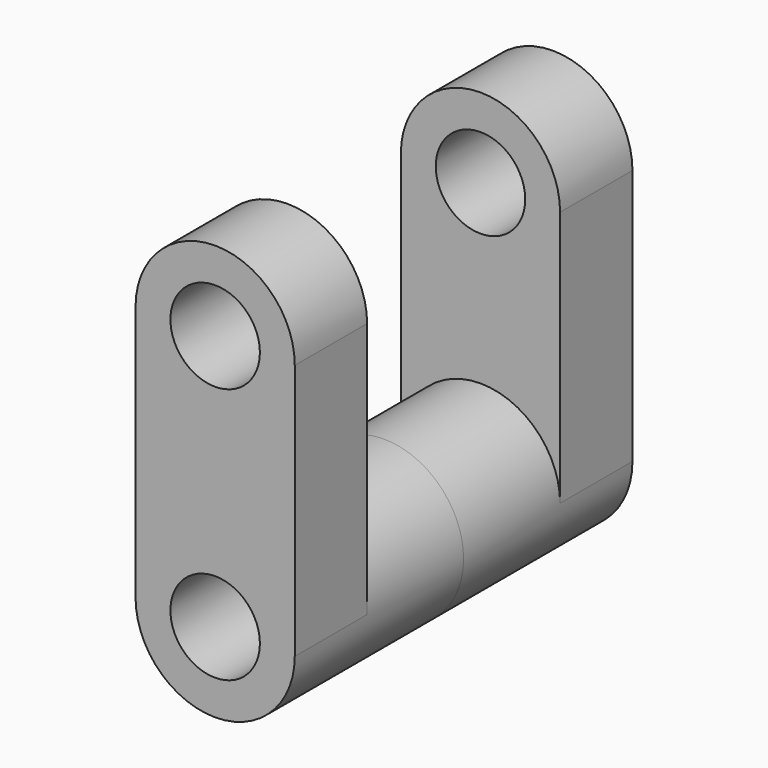
from build123d import *

# Parameters (mm, degrees)
F0_R     = 9.422472
F1_DEPTH = 19.05
F2_DEPTH = 25.4


with BuildPart() as f1:
    # F0 (on Front) → F1 (new body)
    with BuildSketch(Plane.XZ):
        with BuildLine():
            ThreePointArc((-16.764912, 53.948052), (0, 37.183141), (16.764912, 53.948052))
            ThreePointArc((16.764912, 53.948052), (0, 70.712964), (-16.764912, 53.948052))
        make_face()
        with Locations((0, 53.948052)):
            Circle(F0_R, mode=Mode.SUBTRACT)
        with BuildLine():
            ThreePointArc((-16.764912, 0), (0, 16.764912), (16.764912, 0))
            Line((16.764912, 0), (16.764912, 53.948052))
            ThreePointArc((16.764912, 53.948052), (0, 37.183141), (-16.764912, 53.948052))
            Line((-16.764912, 53.948052), (-16.764912, 0))
        make_face()
        with BuildLine():
            ThreePointArc((-16.764912, 0), (0, -16.764912), (16.764912, 0))
            ThreePointArc((16.764912, 0), (0, 16.764912), (-16.764912, 0))
        make_face()
        Circle(F0_R, mode=Mode.SUBTRACT)
    extrude(amount=F1_DEPTH)

    # F0 (on Front) → F2 (join)
    with BuildSketch(Plane.XZ):
        with BuildLine():
            ThreePointArc((-16.764912, 0), (0, -16.764912), (16.764912, 0))
            ThreePointArc((16.764912, 0), (0, 16.764912), (-16.764912, 0))
        make_face()
        Circle(F0_R, mode=Mode.SUBTRACT)
    extrude(amount=-F2_DEPTH)

    # F3: F1 across face


with BuildPart() as f1_1:
    add(f1.part)
    add(f1.part.mirror(Plane(origin=(0, 25.4, 0), x_dir=(1, 0, 0), z_dir=(0, 1, 0))))


solid = f1_1.part
